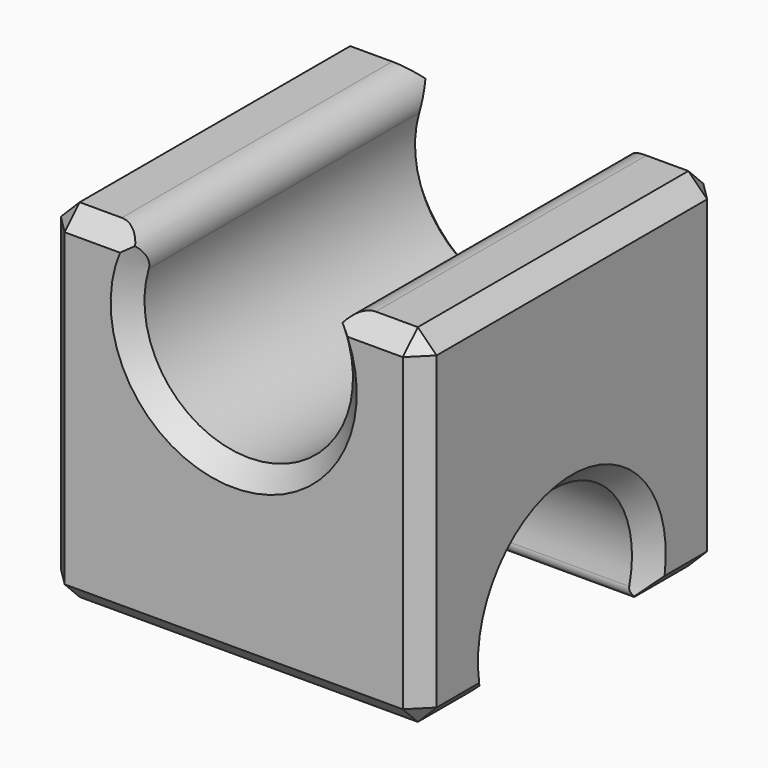
from build123d import *

# Parameters (mm, degrees)
SKETCH_W        = 40
SKETCH_H        = 40
PAD_DEPTH       = 37
SKETCH001_R     = 10.5
POCKET_DEPTH    = 40.001
SKETCH002_R     = 11.1
POCKET001_DEPTH = 40.001
CHAMFER_SIZE    = 2
FILLET_R        = 3
FILLET001_R     = 1


with BuildPart() as part:
    # Sketch → Pad (new body)
    with BuildSketch(Plane.XY):
        Rectangle(SKETCH_W, SKETCH_H)
    extrude(amount=PAD_DEPTH)

    # Sketch001 → Pocket (cut, through all)
    with BuildSketch(Plane.YZ.offset(20)):
        with Locations((0, 4)):
            Circle(SKETCH001_R)
    extrude(amount=-POCKET_DEPTH, mode=Mode.SUBTRACT)

    # Sketch002 → Pocket001 (cut, through all)
    with BuildSketch(Plane.XZ.offset(20)):
        with Locations((0, 30)):
            Circle(SKETCH002_R)
    extrude(amount=-POCKET001_DEPTH, mode=Mode.SUBTRACT)

    # Chamfer
    chamfer_edges = [part.edges().sort_by_distance(p)[0] for p in [
        (-20, -14.854122, 0),
        (-20, -2.038803, 14.300159),
        (-20, 10.300159, 1.961197),
        (-20, 14.854122, 0),
        (-20, 20, 18.5),
        (-20, 0, 37),
        (-20, -20, 18.5),
        (0, -20, 0),
        (-14.307261, -20, 37),
        (-3.714081, -20, 19.539809),
        (10.460191, -20, 33.714081),
        (14.307261, -20, 37),
        (20, -20, 18.5),
        (20, 14.854122, 0),
        (20, 10.300159, 1.961197),
        (20, -2.038803, 14.300159),
        (20, -14.854122, 0),
        (20, 0, 37),
        (20, 20, 18.5),
        (0, 20, 0),
        (14.307261, 20, 37),
        (10.460191, 20, 33.714081),
        (-3.714081, 20, 19.539809),
        (-14.307261, 20, 37),
    ]]
    chamfer(chamfer_edges, length=CHAMFER_SIZE)

    # Fillet
    fillet_edges = [part.edges().sort_by_distance(p)[0] for p in [
        (-8.614523, 0, 37),
        (8.614523, 0, 37),
    ]]
    fillet(fillet_edges, radius=FILLET_R)

    # Fillet001
    fillet001_edges = [part.edges().sort_by_distance(p)[0] for p in [
        (0, 9.708244, 0),
        (0, -9.708244, 0),
    ]]
    fillet(fillet001_edges, radius=FILLET001_R)


solid = part.part
